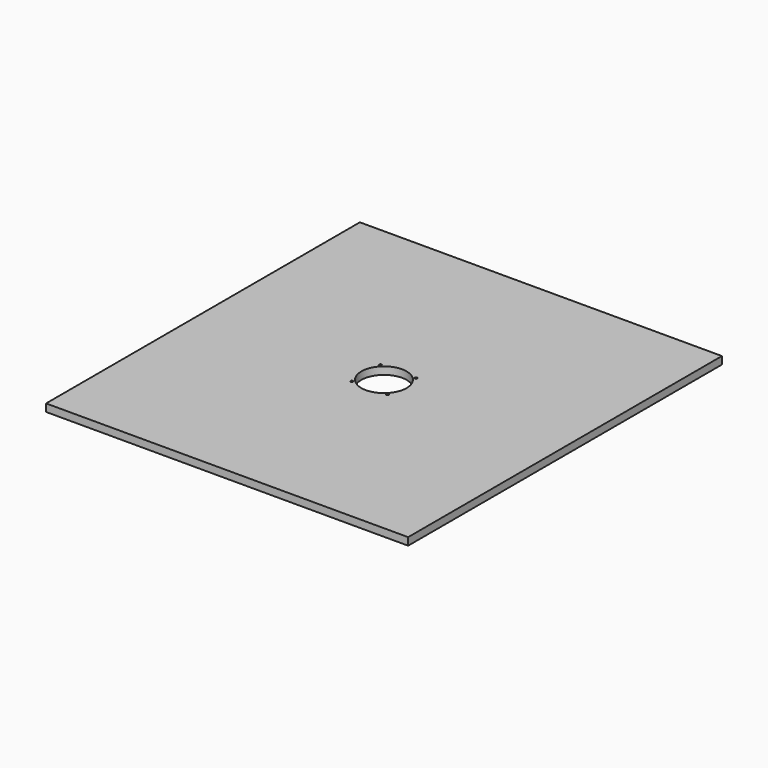
from build123d import *

# Parameters (mm, degrees)
F0_W     = 609.6
F0_H     = 660.4
F1_DEPTH = 12.7
F2_R     = 38.1
F2_R_2   = 1.9812
F3_DEPTH = 12.701


with BuildPart() as f1:
    # F0 (on Top) → F1 (new body)
    with BuildSketch(Plane.XY):
        Rectangle(F0_W, F0_H)
    extrude(amount=F1_DEPTH)

    # F2 (on face) → F3 (cut, through all)
    with BuildSketch(Plane.XY.offset(12.7)):
        Circle(F2_R)
        with Locations((30, 30)):
            Circle(F2_R_2)
        with Locations((-30, 30)):
            Circle(F2_R_2)
        with Locations((-30, -30)):
            Circle(F2_R_2)
        with Locations((30, -30)):
            Circle(F2_R_2)
    extrude(amount=-F3_DEPTH, mode=Mode.SUBTRACT)


solid = f1.part
